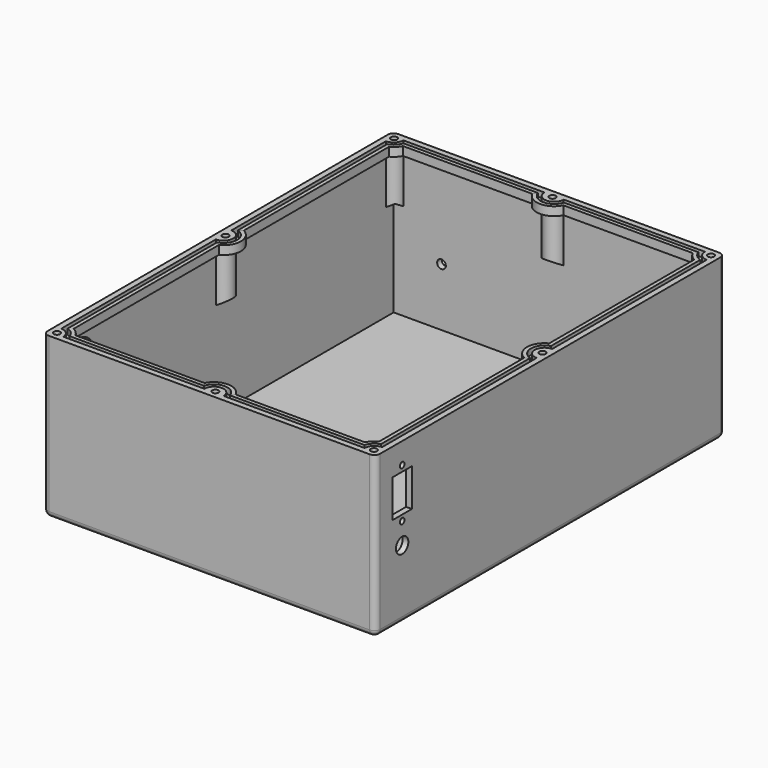
from build123d import *

# Parameters (mm, degrees)
SKETCH002_W     = 166
SKETCH002_H     = 220
PAD_DEPTH       = 80
THICKNESS_T     = 3
PAD004_DEPTH    = 30
SKETCH007_R     = 1.65
HOLE001_DEPTH   = 25
HOLE001_TIPS_R  = 1.65
SKETCH011_R     = 4
SKETCH011_R_2   = 1.5
SKETCH011_W     = 12.5
SKETCH011_H     = 19.5
POCKET_DEPTH    = 3
SKETCH021_R     = 10.05
POCKET002_DEPTH = 3
SKETCH012_R     = 2.25
POCKET001_DEPTH = 9


with BuildPart() as part:
    # Sketch002 → Pad (new body)
    with BuildSketch(Plane.XY):
        Rectangle(SKETCH002_W, SKETCH002_H)
    extrude(amount=PAD_DEPTH)

    # Thickness
    thickness_openings = [part.faces().sort_by_distance(p)[0] for p in [
        (0, 0, 80),
    ]]
    offset(amount=THICKNESS_T, openings=thickness_openings)

    # Sketch006 → Pad004 (join)
    with BuildSketch(Plane.XY.offset(80)):
        with BuildLine():
            ThreePointArc((-83, 105), (-79.464466, 106.464466), (-78, 110))
            Line((-83, 110), (-78, 110))
            Line((-83, 105), (-83, 110))
        make_face()
        with BuildLine():
            ThreePointArc((78, 110), (79.464466, 106.464466), (83, 105))
            Line((83, 110), (83, 105))
            Line((83, 110), (78, 110))
        make_face()
        with BuildLine():
            ThreePointArc((-78, -110), (-79.464466, -106.464466), (-83, -105))
            Line((-83, -110), (-83, -105))
            Line((-83, -110), (-78, -110))
        make_face()
        with BuildLine():
            ThreePointArc((83, -105), (79.464466, -106.464466), (78, -110))
            Line((78, -110), (83, -110))
            Line((83, -110), (83, -105))
        make_face()
        with BuildLine():
            ThreePointArc((5, -110), (0, -105), (-5, -110))
            Line((-5, -110), (5, -110))
        make_face()
        with BuildLine():
            ThreePointArc((-83, -5), (-78, 0), (-83, 5))
            Line((-83, 5), (-83, -5))
        make_face()
        with BuildLine():
            ThreePointArc((83, 5), (78, 0), (83, -5))
            Line((83, 5), (83, -5))
        make_face()
        with BuildLine():
            ThreePointArc((-5, 110), (0, 105), (5, 110))
            Line((-5, 110), (5, 110))
        make_face()
    extrude(amount=-PAD004_DEPTH)

    # SubtractivePipe001: sweep along a path in Sketch009
    with BuildLine(Plane.XY) as subtractivepipe001_path:
        Line((83, -110), (83, 110))
        Line((83, 110), (-83, 110))
        Line((-83, 110), (-83, -110))
        Line((-83, -110), (83, -110))
    # Sketch019 → SubtractivePipe001 (sweep, cut)
    with BuildSketch(Plane.XZ.offset(110)):
        Polygon((-78, 50), (-78, 52.886751), (-83, 50), align=None)
    sweep(path=subtractivepipe001_path.line, transition=Transition.RIGHT, mode=Mode.SUBTRACT)

    # AdditivePipe: sweep along a path in Sketch020
    with BuildLine(Plane.XY) as additivepipe_path:
        Line((-83, 105), (-83, 5))
        ThreePointArc((-83, 5), (-78, 0), (-83, -5))
        Line((-83, -5), (-83, -105))
        ThreePointArc((-83, -105), (-79.464466, -106.464466), (-78, -110))
        Line((-78, -110), (-5, -110))
        ThreePointArc((-5, -110), (0, -105), (5, -110))
        Line((5, -110), (78, -110))
        ThreePointArc((78, -110), (79.464466, -106.464466), (83, -105))
        Line((83, -105), (83, -5))
        ThreePointArc((83, -5), (78, 0), (83, 5))
        Line((83, 5), (83, 105))
        ThreePointArc((83, 105), (79.464466, 106.464466), (78, 110))
        Line((78, 110), (5, 110))
        ThreePointArc((5, 110), (0, 105), (-5, 110))
        Line((-5, 110), (-78, 110))
        ThreePointArc((-78, 110), (-79.464466, 106.464466), (-83, 105))
    # Sketch005 → AdditivePipe (sweep)
    with BuildSketch(Plane.XZ.offset(105)):
        Polygon((-83, 77), (-83, 74.044119), (-79, 75.5), (-79, 80), (-81, 80), (-81, 77), align=None)
    sweep(path=additivepipe_path.line, transition=Transition.RIGHT)

    # Sketch007 → Hole001 (cut)
    with BuildSketch(Plane.XY.offset(80)):
        with Locations((-82, 0)):
            Circle(SKETCH007_R)
        with Locations((-82, 109)):
            Circle(SKETCH007_R)
        with Locations((0, 109)):
            Circle(SKETCH007_R)
        with Locations((82, 109)):
            Circle(SKETCH007_R)
        with Locations((82, 0)):
            Circle(SKETCH007_R)
        with Locations((82, -109)):
            Circle(SKETCH007_R)
        with Locations((0, -109)):
            Circle(SKETCH007_R)
        with Locations((-82, -109)):
            Circle(SKETCH007_R)
    extrude(amount=-HOLE001_DEPTH, mode=Mode.SUBTRACT)

    # Hole001 tips → Hole001 tip 1 section 0
    with BuildSketch(Plane.XY.offset(55), mode=Mode.PRIVATE) as hole001_tip_1_s0:
        with Locations((-82, 0)):
            Circle(HOLE001_TIPS_R)
    loft([hole001_tip_1_s0.sketch, Vertex(-82, 0, 54.00858)], mode=Mode.SUBTRACT)

    # Hole001 tips → Hole001 tip 2 section 0
    with BuildSketch(Plane.XY.offset(55), mode=Mode.PRIVATE) as hole001_tip_2_s0:
        with Locations((-82, 109)):
            Circle(HOLE001_TIPS_R)
    loft([hole001_tip_2_s0.sketch, Vertex(-82, 109, 54.00858)], mode=Mode.SUBTRACT)

    # Hole001 tips → Hole001 tip 3 section 0
    with BuildSketch(Plane.XY.offset(55), mode=Mode.PRIVATE) as hole001_tip_3_s0:
        with Locations((0, 109)):
            Circle(HOLE001_TIPS_R)
    loft([hole001_tip_3_s0.sketch, Vertex(0, 109, 54.00858)], mode=Mode.SUBTRACT)

    # Hole001 tips → Hole001 tip 4 section 0
    with BuildSketch(Plane.XY.offset(55), mode=Mode.PRIVATE) as hole001_tip_4_s0:
        with Locations((82, 109)):
            Circle(HOLE001_TIPS_R)
    loft([hole001_tip_4_s0.sketch, Vertex(82, 109, 54.00858)], mode=Mode.SUBTRACT)

    # Hole001 tips → Hole001 tip 5 section 0
    with BuildSketch(Plane.XY.offset(55), mode=Mode.PRIVATE) as hole001_tip_5_s0:
        with Locations((82, 0)):
            Circle(HOLE001_TIPS_R)
    loft([hole001_tip_5_s0.sketch, Vertex(82, 0, 54.00858)], mode=Mode.SUBTRACT)

    # Hole001 tips → Hole001 tip 6 section 0
    with BuildSketch(Plane.XY.offset(55), mode=Mode.PRIVATE) as hole001_tip_6_s0:
        with Locations((82, -109)):
            Circle(HOLE001_TIPS_R)
    loft([hole001_tip_6_s0.sketch, Vertex(82, -109, 54.00858)], mode=Mode.SUBTRACT)

    # Hole001 tips → Hole001 tip 7 section 0
    with BuildSketch(Plane.XY.offset(55), mode=Mode.PRIVATE) as hole001_tip_7_s0:
        with Locations((0, -109)):
            Circle(HOLE001_TIPS_R)
    loft([hole001_tip_7_s0.sketch, Vertex(0, -109, 54.00858)], mode=Mode.SUBTRACT)

    # Hole001 tips → Hole001 tip 8 section 0
    with BuildSketch(Plane.XY.offset(55), mode=Mode.PRIVATE) as hole001_tip_8_s0:
        with Locations((-82, -109)):
            Circle(HOLE001_TIPS_R)
    loft([hole001_tip_8_s0.sketch, Vertex(-82, -109, 54.00858)], mode=Mode.SUBTRACT)

    # Sketch011 (on Face4 of Hole001) → Pocket (cut)
    with BuildSketch(Plane.YZ.offset(86)):
        with Locations((-95.75, 32.5)):
            Circle(SKETCH011_R)
        with Locations((-95.75, 69)):
            Circle(SKETCH011_R_2)
        with Locations((-95.75, 43.5)):
            Circle(SKETCH011_R_2)
        with Locations((-95.75, 56.25)):
            Rectangle(SKETCH011_W, SKETCH011_H)
    extrude(amount=-POCKET_DEPTH, mode=Mode.SUBTRACT)

    # Sketch021 (on Face9 of Hole001) → Pocket002 (cut)
    with BuildSketch(Plane(origin=(-86, 0, 0), x_dir=(0, -1, 0), z_dir=(-1, 0, 0))):
        with Locations((94, 60.95)):
            Circle(SKETCH021_R)
    extrude(amount=-POCKET002_DEPTH, mode=Mode.SUBTRACT)

    # Sketch012 (on Face2 of Pocket) → Pocket001 (cut)
    with BuildSketch(Plane(origin=(0, 113, 0), x_dir=(-1, 0, 0), z_dir=(0, 1, 0))):
        with Locations((-58.25, 30)):
            Circle(SKETCH012_R)
        with Locations((58.25, 30)):
            Circle(SKETCH012_R)
    extrude(amount=-POCKET001_DEPTH, mode=Mode.SUBTRACT)


solid = part.part
